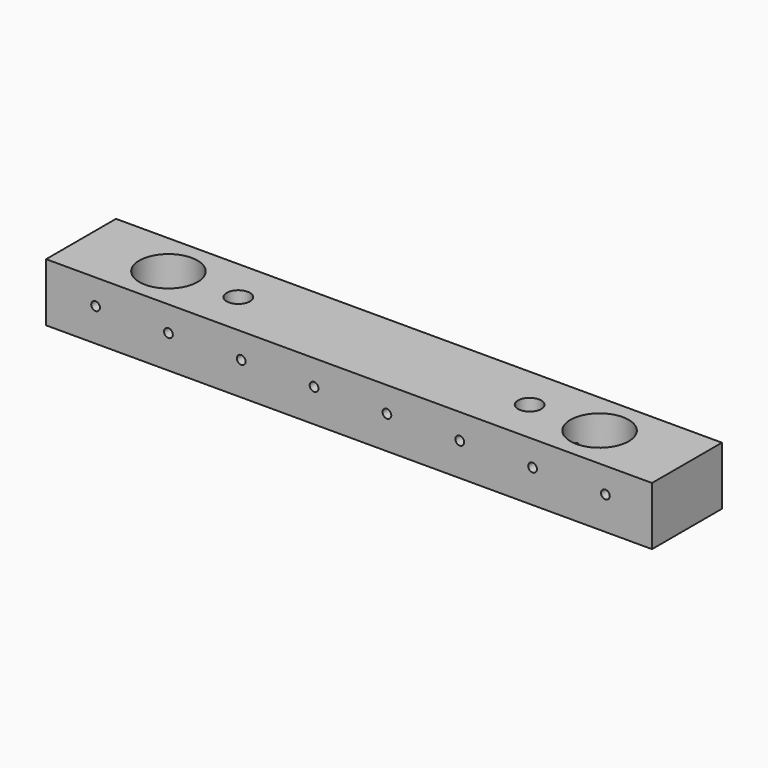
from build123d import *

# Parameters (mm, degrees)
F0_W     = 104
F0_H     = 15
F0_R     = 5
F0_R_2   = 2
F1_DEPTH = 10
F2_R     = 0.75
F3_DEPTH = 25


with BuildPart() as f1:
    # F0 (on Top) → F1 (new body)
    with BuildSketch(Plane.XY):
        Rectangle(F0_W, F0_H)
        with Locations((-37, 0)):
            Circle(F0_R, mode=Mode.SUBTRACT)
        with Locations((-25, 0)):
            Circle(F0_R_2, mode=Mode.SUBTRACT)
        with Locations((25, 0)):
            Circle(F0_R_2, mode=Mode.SUBTRACT)
        with Locations((37, 0)):
            Circle(F0_R, mode=Mode.SUBTRACT)
    extrude(amount=F1_DEPTH)

    # F2 (on face) → F3 (cut)
    with BuildSketch(Plane.XZ.offset(7.5)):
        with Locations((-43.5, 5.666667)):
            Circle(F2_R)
        with Locations((-31, 5.666667)):
            Circle(F2_R)
        with Locations((-18.5, 5.666667)):
            Circle(F2_R)
        with Locations((-6, 5.666667)):
            Circle(F2_R)
        with Locations((6.5, 5.666667)):
            Circle(F2_R)
        with Locations((19, 5.666667)):
            Circle(F2_R)
        with Locations((31.5, 5.666667)):
            Circle(F2_R)
        with Locations((44, 5.666667)):
            Circle(F2_R)
    extrude(amount=-F3_DEPTH, mode=Mode.SUBTRACT)


solid = f1.part
